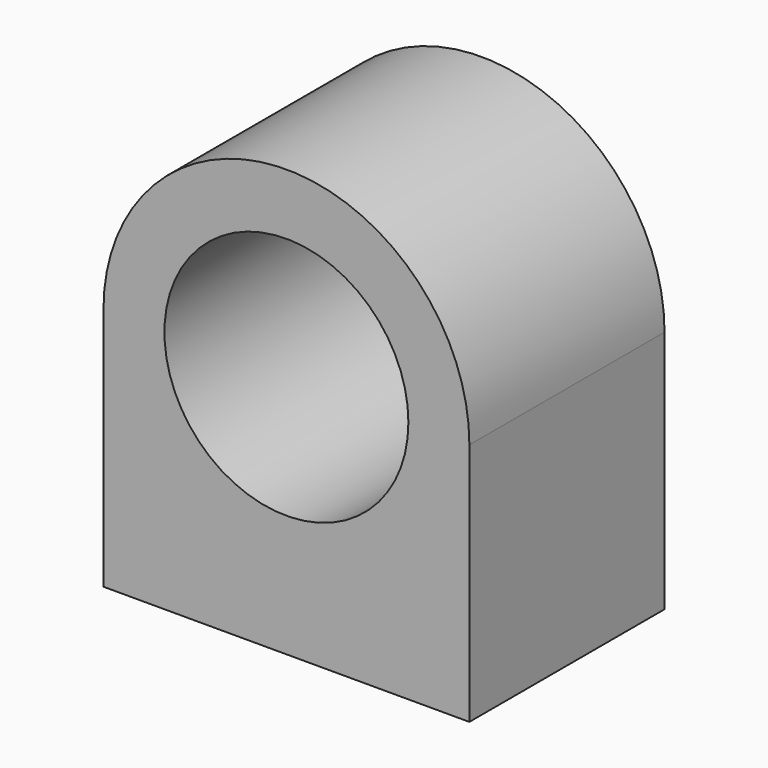
from build123d import *

# Parameters (mm, degrees)
F0_R     = 12.7
F1_DEPTH = 12.7
F2_R     = 3.175
F3_DEPTH = 12.7


with BuildPart() as f1:
    # F0 (on Front) → F1 (new body, symmetric)
    with BuildSketch(Plane.XZ):
        with BuildLine():
            Line((19.05, -25.4), (19.05, 0))
            ThreePointArc((19.05, 0), (0, 19.05), (-19.05, 0))
            Line((-19.05, 0), (-19.05, -25.4))
            Line((-19.05, -25.4), (0, -25.4))
            Line((0, -25.4), (19.05, -25.4))
        make_face()
        Circle(F0_R, mode=Mode.SUBTRACT)
    extrude(amount=F1_DEPTH, both=True)

    # F2 (on face) → F3 (cut)
    with BuildSketch(Plane(origin=(0, 0, -25.4), x_dir=(1, 0, 0), z_dir=(0, 0, -1))):
        with Locations((-12.7, 0)):
            Circle(F2_R)
        with Locations((12.7, 0)):
            Circle(F2_R)
    extrude(amount=-F3_DEPTH, mode=Mode.SUBTRACT)


solid = f1.part
